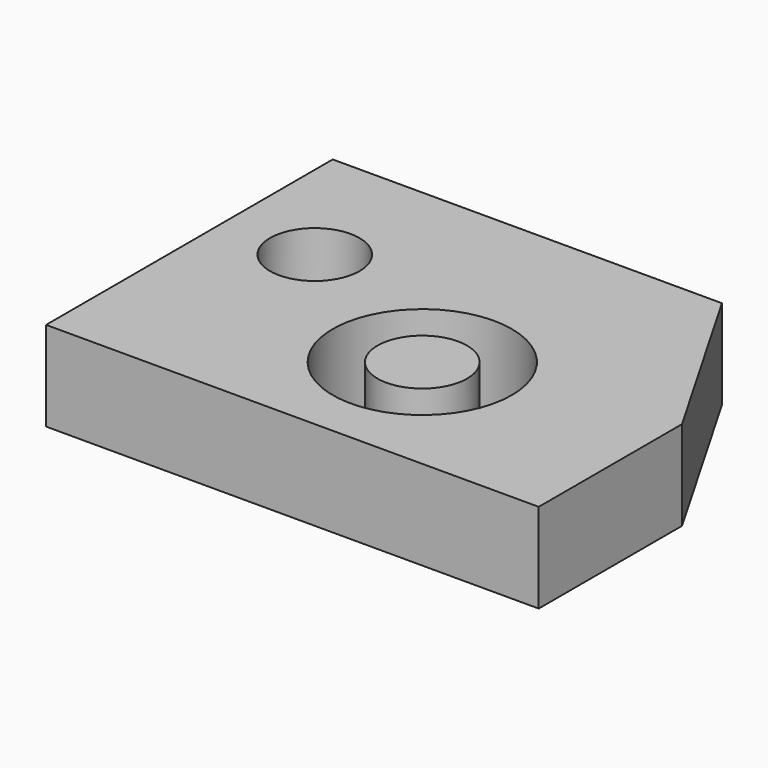
from build123d import *

# Parameters (mm, degrees)
F0_R     = 25.4
F0_R_2   = 12.7
F1_DEPTH = 25.4


with BuildPart() as f1:
    # F0 (on Top) → F1 (new body)
    with BuildSketch(Plane.XY):
        Polygon((-43.696255, 5.461565), (-43.696255, -58.031149), (32.503745, -58.031149), (96.003745, -58.031149), (96.003745, -7.231149), (66.674352, 43.568851), (-43.696255, 43.568851), align=None)
        with Locations((32.503745, -19.931149)):
            Circle(F0_R, mode=Mode.SUBTRACT)
        with Locations((-18.296255, 5.461565)):
            Circle(F0_R_2, mode=Mode.SUBTRACT)
        with Locations((32.503745, -19.931149)):
            Circle(F0_R_2)
    extrude(amount=F1_DEPTH)


solid = f1.part
